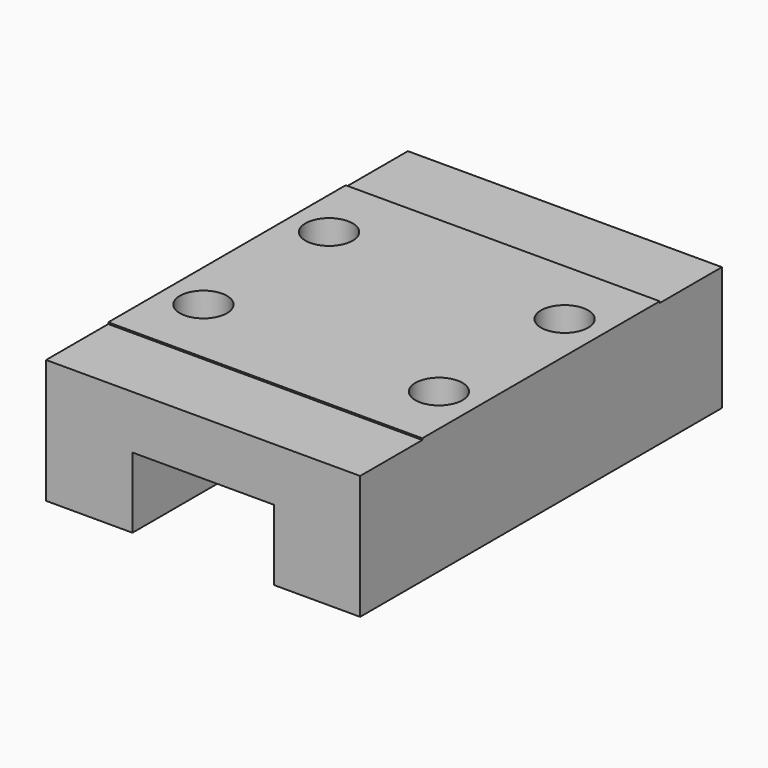
from build123d import *

# Parameters (mm, degrees)
SKETCH044_W     = 20
SKETCH044_H     = 28.8
PAD015_DEPTH    = 8
SKETCH045_W     = 9
SKETCH045_H     = 4.5
POCKET029_DEPTH = 28.8
SKETCH046_R     = 1.5
POCKET027_DEPTH = 4
SKETCH047_W     = 20
SKETCH047_H     = 4.95
POCKET030_DEPTH = 0.1


with BuildPart() as part:
    # Sketch044 → Pad015 (new body)
    with BuildSketch(Plane.XY):
        with Locations((-4.5, 14.4)):
            Rectangle(SKETCH044_W, SKETCH044_H)
    extrude(amount=PAD015_DEPTH)

    # Sketch045 (on Face1 of Pad015) → Pocket029 (cut)
    with BuildSketch(Plane.XZ):
        with Locations((-4.5, 2.25)):
            Rectangle(SKETCH045_W, SKETCH045_H)
    extrude(amount=-POCKET029_DEPTH, mode=Mode.SUBTRACT)

    # Sketch046 (on Face8 of Pocket029) → Pocket027 (cut)
    with BuildSketch(Plane.XY.offset(8)):
        with Locations((-12, 19.4)):
            Circle(SKETCH046_R)
        with Locations((3, 9.4)):
            Circle(SKETCH046_R)
        with Locations((-12, 9.4)):
            Circle(SKETCH046_R)
        with Locations((3, 19.4)):
            Circle(SKETCH046_R)
    extrude(amount=-POCKET027_DEPTH, mode=Mode.SUBTRACT)

    # Sketch047 (on Face8 of Pocket027) → Pocket030 (cut)
    with BuildSketch(Plane.XY.offset(8)):
        with Locations((-4.5, 26.325)):
            Rectangle(SKETCH047_W, SKETCH047_H)
        with Locations((-4.5, 2.475)):
            Rectangle(SKETCH047_W, SKETCH047_H)
    extrude(amount=-POCKET030_DEPTH, mode=Mode.SUBTRACT)


with BuildPart() as part_1:
    # Body016 placement: moved
    add(part.part.moved(Location((0, 100, 2))))


solid = part_1.part
